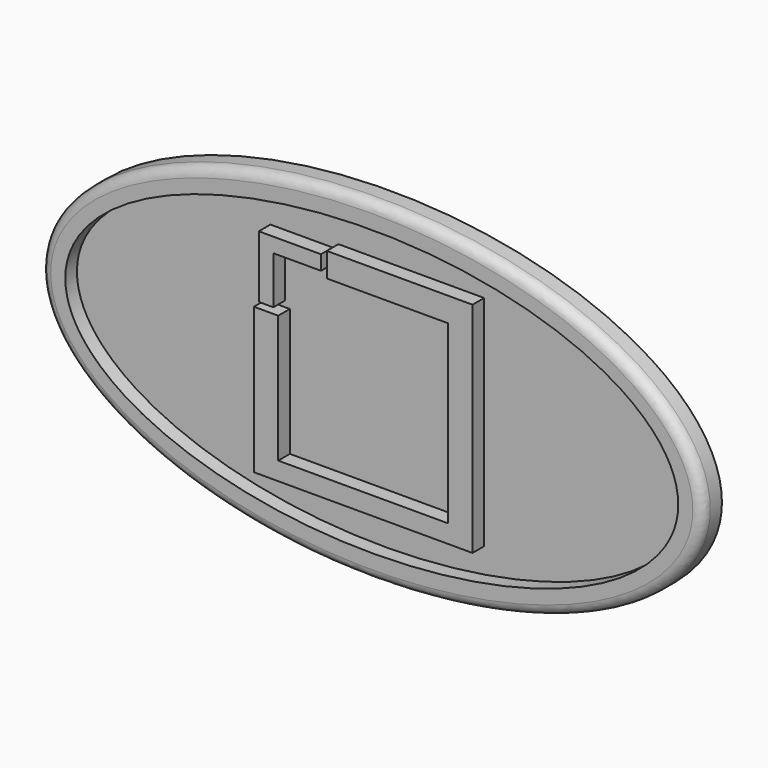
from build123d import *

# Parameters (mm, degrees)
F1_DEPTH = 6.35
F3_DEPTH = 3.81
F5_DEPTH = 3.81
F6_R     = 2.54


with BuildPart() as f1:
    # F0 (on Front) → F1 (new body)
    with BuildSketch(Plane.XZ):
        with BuildLine():
            add(Edge.make_bspline(
                [(86.487, 0), (86.487, 75.449865), (-43.2435, 37.724933), (-172.974, 0), (-43.2435, -37.724933), (86.487, -75.449865), (86.487, 0)],
                knots=[0, 0, 0, 2.094395, 2.094395, 4.18879, 4.18879, 6.283185, 6.283185, 6.283185], degree=2, weights=[1, 0.5, 1, 0.5, 1, 0.5, 1]))
        make_face()
    extrude(amount=F1_DEPTH)

    # F2 (on face) → F3 (cut)
    with BuildSketch(Plane.XZ.offset(6.35)):
        with BuildLine():
            add(Edge.make_bspline(
                [(80.137, 0), (80.137, 64.451343), (-40.0685, 32.225671), (-160.274, 0), (-40.0685, -32.225671), (80.137, -64.451343), (80.137, 0)],
                knots=[0, 0, 0, 2.094395, 2.094395, 4.18879, 4.18879, 6.283185, 6.283185, 6.283185], degree=2, weights=[1, 0.5, 1, 0.5, 1, 0.5, 1]))
        make_face()
    extrude(amount=-F3_DEPTH, mode=Mode.SUBTRACT)

    # F4 (on face) → F5 (join)
    with BuildSketch(Plane.XZ.offset(2.54)):
        Polygon((-24.459538, 9.483173), (-30.809538, 9.483173), (-30.809538, -28.616827), (26.340462, -28.616827), (26.340462, 28.533173), (-11.759538, 28.533173), (-11.759538, 22.183173), (19.990462, 22.183173), (19.990462, -23.876898), (-24.459538, -23.876898), align=None)
        Polygon((-29.539538, 27.263173), (-29.539538, 11.007173), (-25.729538, 11.007173), (-25.729538, 23.453173), (-13.283538, 23.453173), (-13.283538, 27.263173), align=None)
    extrude(amount=F5_DEPTH)

    # F6
    f6_edges = [f1.edges().sort_by_distance(p)[0] for p in [
        (-86.487, -6.35, 1e-05),
    ]]
    fillet(f6_edges, radius=F6_R)


solid = f1.part
